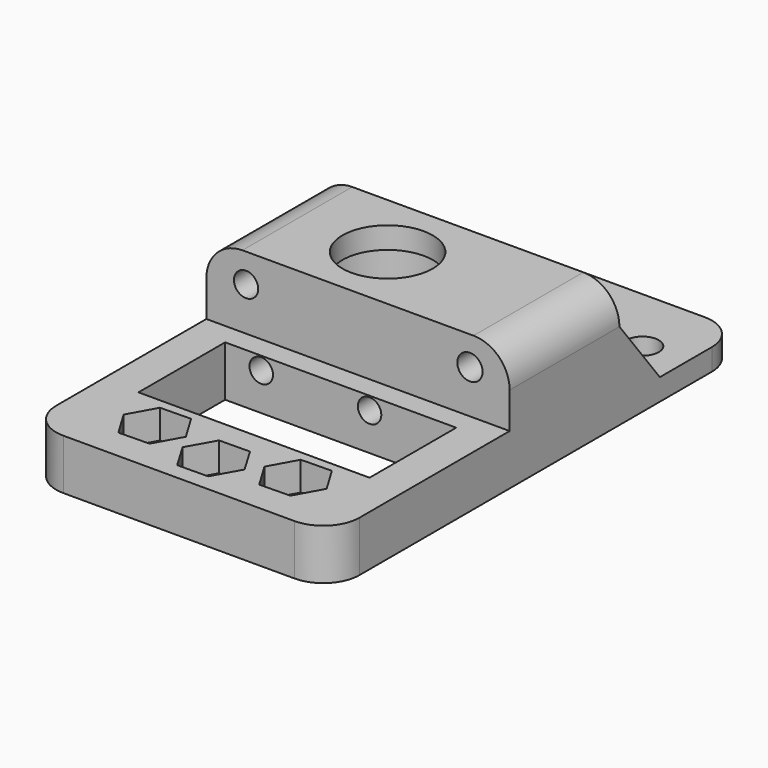
from build123d import *

# Parameters (mm, degrees)
F0_W      = 42
F0_H      = 31
F0_R      = 2.25
F0_W_2    = 32
F0_H_2    = 15
F1_DEPTH  = 7
F0_H_3    = 21
F2_DEPTH  = 3
F0_H_4    = 19
F3_DEPTH  = 17
F4_R      = 5
F5_R      = 5
F6_R      = 6.25
F7_DEPTH  = 25
F9_DEPTH  = 3
F11_DEPTH = 3
F12_R     = 1.6772479293
F12_R_2   = 1.75
F13_DEPTH = 25
F6_R_2    = 8.25
F14_DEPTH = 14
F15_R     = 1.625
F16_DEPTH = 30
F17_R     = 2.25
F18_DEPTH = 4


with BuildPart() as f1:
    # F0 (on Top) → F1 (new body)
    with BuildSketch(Plane.XY):
        with Locations((0, -15.5)):
            Rectangle(F0_W, F0_H)
        with Locations((-9.75, -23)):
            Circle(F0_R, mode=Mode.SUBTRACT)
        with Locations((0, -25)):
            Circle(F0_R, mode=Mode.SUBTRACT)
        with Locations((9.75, -23)):
            Circle(F0_R, mode=Mode.SUBTRACT)
        with Locations((0, -10.5)):
            Rectangle(F0_W_2, F0_H_2, mode=Mode.SUBTRACT)
    extrude(amount=F1_DEPTH)



with BuildPart() as f2:
    # F0 (on Top) → F2 (new body)
    with BuildSketch(Plane.XY):
        with Locations((0, 29.5)):
            Rectangle(F0_W, F0_H_3)
        with Locations((-3.5, 33.5)):
            Circle(F0_R, mode=Mode.SUBTRACT)
        with Locations((15, 30.5)):
            Circle(F0_R, mode=Mode.SUBTRACT)
    extrude(amount=F2_DEPTH)


with BuildPart() as f1_1:
    add(f1.part)

    add(f2.part)  # F3 merges F2
    # F0 (on Top) → F3 (join)
    with BuildSketch(Plane.XY):
        with Locations((0, 9.5)):
            Rectangle(F0_W, F0_H_4)
    extrude(amount=F3_DEPTH)

    # F4
    f4_edges = [f1_1.edges().sort_by_distance(p)[0] for p in [
        (-21, -31, 3.5),
        (21, -31, 3.5),
    ]]
    fillet(f4_edges, radius=F4_R)

    # F5
    f5_edges = [f1_1.edges().sort_by_distance(p)[0] for p in [
        (-21, 40, 1.5),
        (21, 40, 1.5),
        (21, 9.5, 17),
        (-21, 9.5, 17),
    ]]
    fillet(f5_edges, radius=F5_R)

    # F6 (on face) → F7 (cut)
    with BuildSketch(Plane(origin=(0, 0, 0), x_dir=(1, 0, 0), z_dir=(0, 0, -1))):
        with Locations((-3.5, -9.5)):
            Circle(F6_R)
    extrude(amount=-F7_DEPTH, mode=Mode.SUBTRACT)

    # F8 (on face) → F9 (join)
    with BuildSketch(Plane(origin=(-21, 0, 0), x_dir=(0, -1, 0), z_dir=(-1, 0, 0))):
        Polygon((-19, 3), (-19, 12), (-26, 3), align=None)
    extrude(amount=-F9_DEPTH)

    # F10 (on face) → F11 (join)
    with BuildSketch(Plane.YZ.offset(21)):
        Polygon((26, 3), (19, 12), (19, 3), align=None)
    extrude(amount=-F11_DEPTH)

    # F12 (on face) → F13 (cut)
    with BuildSketch(Plane.XZ):
        with Locations((-15.5, 13)):
            Circle(F12_R)
        with Locations((15.5, 13)):
            Circle(F12_R_2)
    extrude(amount=-F13_DEPTH, mode=Mode.SUBTRACT)

    # F6 (on face) → F14 (cut)
    with BuildSketch(Plane(origin=(0, 0, 0), x_dir=(1, 0, 0), z_dir=(0, 0, -1))):
        with Locations((-3.5, -9.5)):
            Circle(F6_R_2)
        with Locations((-3.5, -9.5)):
            Circle(F6_R, mode=Mode.SUBTRACT)
    extrude(amount=-F14_DEPTH, mode=Mode.SUBTRACT)

    # F15 (on face) → F16 (cut)
    with BuildSketch(Plane(origin=(0, 19, 0), x_dir=(-1, 0, 0), z_dir=(0, 1, 0))):
        with Locations((-4, 5.1853246987)):
            Circle(F15_R)
        with Locations((11, 5.1853246987)):
            Circle(F15_R)
    extrude(amount=-F16_DEPTH, mode=Mode.SUBTRACT)

    # F17 (on face) → F18 (cut)
    with BuildSketch(Plane.XY.offset(7)):
        Polygon((-5.5006545536, -22.9254126202), (-7.6899218425, -19.2826652041), (-11.9392672889, -19.3572525839), (-13.9993454464, -23.0745873798), (-11.8100781575, -26.7173347959), (-7.5607327111, -26.6427474161), align=None)
        with Locations((-9.75, -23)):
            Circle(F17_R, mode=Mode.SUBTRACT)
        Polygon((4.2483044025, -24.9471547253), (2.0783868508, -21.2944378271), (-2.1699175516, -21.3472831018), (-4.2483044025, -25.0528452747), (-2.0783868508, -28.7055621729), (2.1699175516, -28.6527168982), align=None)
        with Locations((0, -25)):
            Circle(F17_R, mode=Mode.SUBTRACT)
        Polygon((13.9979346939, -22.9229691252), (11.8072566524, -19.2826652041), (7.5593219586, -19.3596960789), (5.5020653061, -23.0770308748), (7.6927433476, -26.7173347959), (11.9406780414, -26.6403039211), align=None)
        with Locations((9.75, -23)):
            Circle(F17_R, mode=Mode.SUBTRACT)
    extrude(amount=-F18_DEPTH, mode=Mode.SUBTRACT)


solid = f1_1.part
